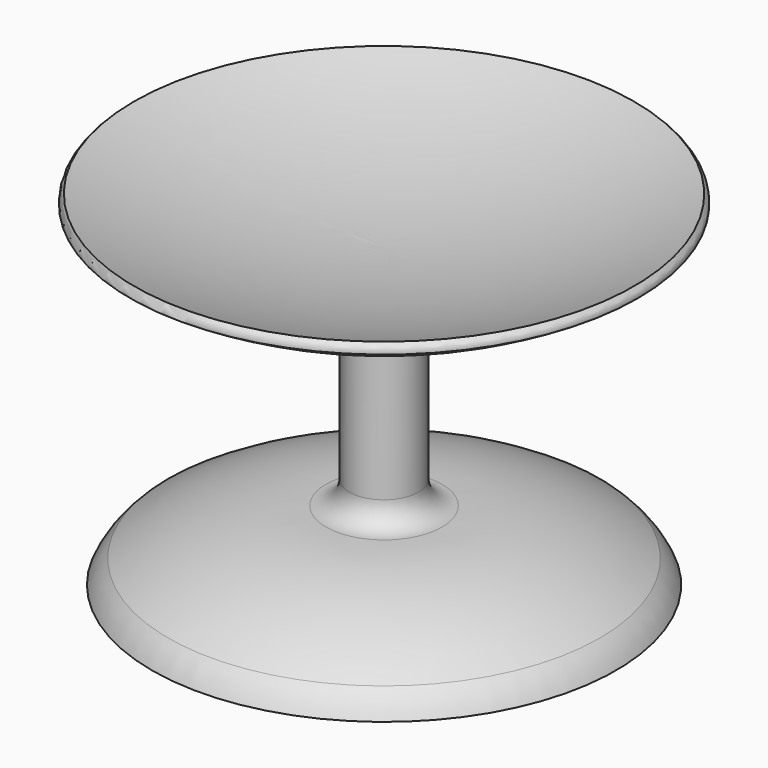
from build123d import *


with BuildPart() as f1:
    # F0 (on Front) → F1 (revolve)
    with BuildSketch(Plane.XZ):
        with BuildLine():
            Line((-100, 0), (0, 0))
            Line((0, 0), (0, 128.301595))
            ThreePointArc((0, 128.301595), (-54.806304, 133.346404), (-107.770756, 148.311292))
            ThreePointArc((-107.770756, 148.311292), (-109.106255, 146.496118), (-109.410435, 144.263208))
            ThreePointArc((-109.410435, 144.263208), (-64.069096, 123.618266), (-15, 115))
            Line((-15, 115), (-15, 40))
            ThreePointArc((-15, 40), (-17.928932, 32.928932), (-25, 30))
            ThreePointArc((-25, 30), (-60.44009, 24.896307), (-93, 10))
            ThreePointArc((-93, 10), (-97.033611, 5.373528), (-100, 0))
        make_face()
    revolve(axis=Axis((0, 0, 64.150798), (0, 0, -1)))


solid = f1.part
